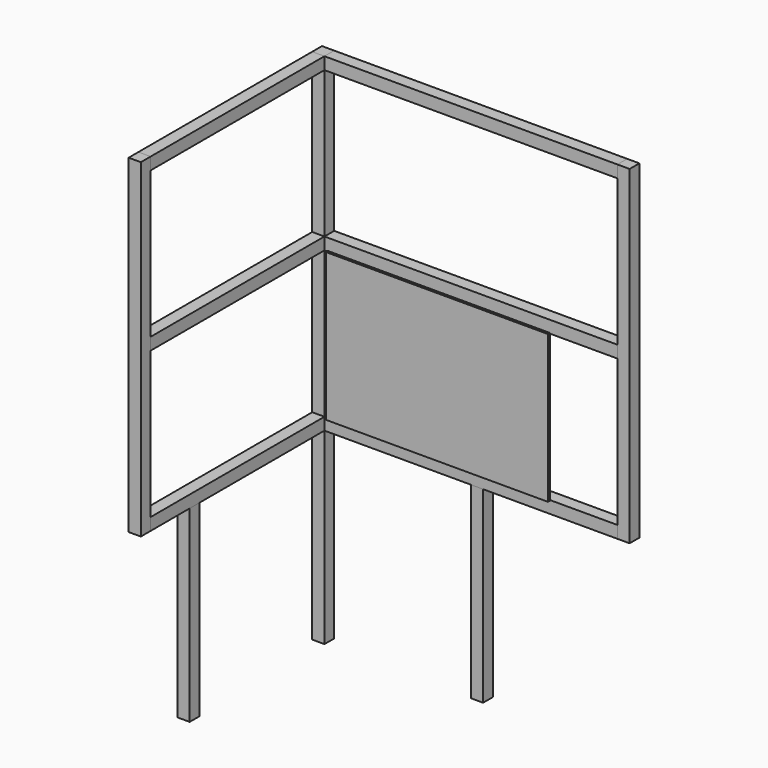
from build123d import *

# Parameters (mm, degrees)
F0_W      = 50
F0_H      = 50
F1_DEPTH  = 2120
F2_W      = 50
F2_H      = 50
F3_DEPTH  = 890
F4_W      = 50
F4_H      = 50
F5_DEPTH  = 1350
F6_W      = 50
F6_H      = 50
F7_DEPTH  = 890
F8_W      = 50
F8_H      = 50
F9_DEPTH  = 1200
F10_W     = 50
F10_H     = 50
F11_DEPTH = 1350
F12_W     = 50
F12_H     = 50
F13_DEPTH = 1200
F14_W     = 50
F14_H     = 50
F15_DEPTH = 770
F16_W     = 50
F16_H     = 50
F17_DEPTH = 1200
F18_W     = 50
F18_H     = 50
F19_DEPTH = 890
F20_W     = 910
F20_H     = 605
F21_DEPTH = 10
F22_W     = 50
F22_H     = 50
F23_DEPTH = 770


with BuildPart() as f1:
    # F0 (on Top) → F1 (new body)
    with BuildSketch(Plane.XY):
        Rectangle(F0_W, F0_H)
    extrude(amount=F1_DEPTH)


with BuildPart() as f3:
    # F2 (on face) → F3 (new body)
    with BuildSketch(Plane.XZ.offset(25)):
        with Locations((0, 2095)):
            Rectangle(F2_W, F2_H)
    extrude(amount=F3_DEPTH)


with BuildPart() as f5:
    # F4 (on face) → F5 (new body)
    with BuildSketch(Plane.XY.offset(2120)):
        with Locations((0, -940)):
            Rectangle(F4_W, F4_H)
    extrude(amount=-F5_DEPTH)


with BuildPart() as f7:
    # F6 (on face) → F7 (new body, through all)
    with BuildSketch(Plane(origin=(0, -915, 0), x_dir=(-1, 0, 0), z_dir=(0, 1, 0))):
        with Locations((0, 795)):
            Rectangle(F6_W, F6_H)
    extrude(amount=F7_DEPTH)


with BuildPart() as f9:
    # F8 (on face) → F9 (new body)
    with BuildSketch(Plane.YZ.offset(25)):
        with Locations((0, 2095)):
            Rectangle(F8_W, F8_H)
    extrude(amount=F9_DEPTH)


with BuildPart() as f11:
    # F10 (on face) → F11 (new body, through all)
    with BuildSketch(Plane.XY.offset(2120)):
        with Locations((1250, 0)):
            Rectangle(F10_W, F10_H)
    extrude(amount=-F11_DEPTH)


with BuildPart() as f13:
    # F12 (on face) → F13 (new body, through all)
    with BuildSketch(Plane.YZ.offset(25)):
        with Locations((0, 795)):
            Rectangle(F12_W, F12_H)
    extrude(amount=F13_DEPTH)


with BuildPart() as f15:
    # F14 (on face) → F15 (new body, through all)
    with BuildSketch(Plane(origin=(0, 0, 770), x_dir=(1, 0, 0), z_dir=(0, 0, -1))):
        with Locations((0, 690)):
            Rectangle(F14_W, F14_H)
    extrude(amount=F15_DEPTH)


with BuildPart() as f17:
    # F16 (on face) → F17 (new body, through all)
    with BuildSketch(Plane.YZ.offset(25)):
        with Locations((0, 1445)):
            Rectangle(F16_W, F16_H)
    extrude(amount=F17_DEPTH)


with BuildPart() as f19:
    # F18 (on face) → F19 (new body, through all)
    with BuildSketch(Plane.XZ.offset(25)):
        with Locations((0, 1445)):
            Rectangle(F18_W, F18_H)
    extrude(amount=F19_DEPTH)


with BuildPart() as f21:
    # F20 (on face) → F21 (new body)
    with BuildSketch(Plane.XZ.offset(25)):
        with Locations((493.644080162, 1120)):
            Rectangle(F20_W, F20_H)
    extrude(amount=F21_DEPTH)


with BuildPart() as f23:
    # F22 (on face) → F23 (new body, through all)
    with BuildSketch(Plane(origin=(0, 0, 770), x_dir=(1, 0, 0), z_dir=(0, 0, -1))):
        with Locations((650, 0)):
            Rectangle(F22_W, F22_H)
    extrude(amount=F23_DEPTH)


solid = Compound([f1.part, f3.part, f5.part, f7.part, f9.part, f11.part, f13.part, f15.part, f17.part, f19.part, f21.part, f23.part])
